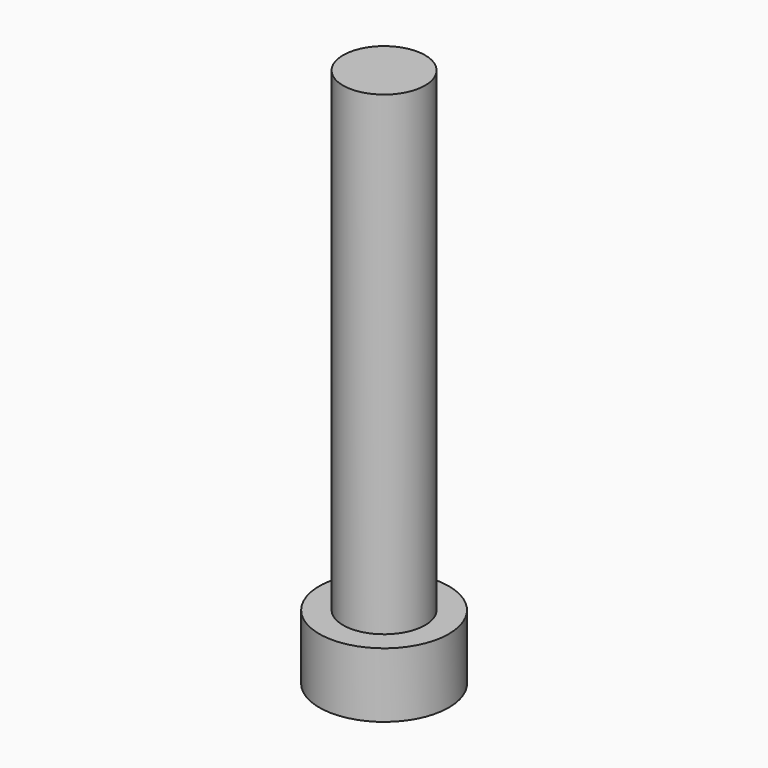
from build123d import *

# Parameters (mm, degrees)
CYLINDER001_R     = 3
CYLINDER001_DEPTH = 3
CYLINDER_R        = 1.9
CYLINDER_DEPTH    = 25


with BuildPart() as bolt_head:
    # Cylinder001 → Cylinder001 (new body)
    with BuildSketch(Plane.XY):
        Circle(CYLINDER001_R)
    extrude(amount=CYLINDER001_DEPTH)


with BuildPart() as m3_bolt:
    # Cylinder → Cylinder (new body)
    with BuildSketch(Plane.XY):
        Circle(CYLINDER_R)
    extrude(amount=CYLINDER_DEPTH)

    # Fusion: union Bolt_Head
    add(bolt_head.part)


solid = m3_bolt.part
